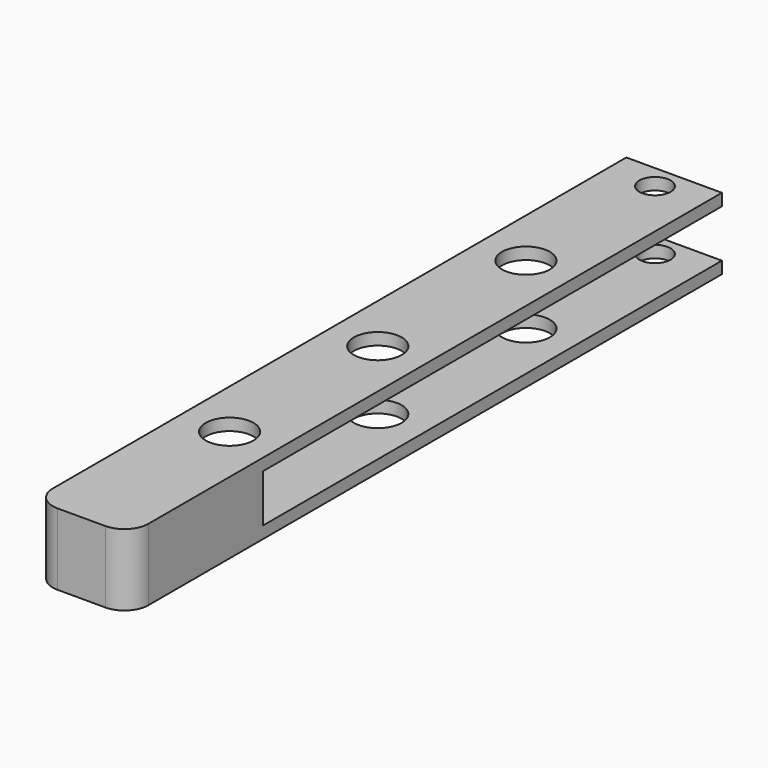
from build123d import *

# Parameters (mm, degrees)
F0_R     = 6.35
F0_R_2   = 4.136422
F1_DEPTH = 19.05
F2_W     = 12.7
F2_H     = 12.7
F3_DEPTH = 152.4


with BuildPart() as f1:
    # F0 (on Top) → F1 (new body)
    with BuildSketch(Plane.XY):
        with BuildLine():
            Line((25.4, 6.35), (25.4, 196.85))
            Line((25.4, 196.85), (6.35, 196.85))
            Line((6.35, 196.85), (0, 196.85))
            Line((0, 196.85), (0, 190.5))
            Line((0, 190.5), (0, 98.425))
            Line((0, 98.425), (0, 6.35))
            ThreePointArc((0, 6.35), (1.859872, 1.859872), (6.35, 0))
            Line((6.35, 0), (19.05, 0))
            ThreePointArc((19.05, 0), (23.540128, 1.859872), (25.4, 6.35))
        make_face()
        with Locations((12.7, 49.2125)):
            Circle(F0_R, mode=Mode.SUBTRACT)
        with Locations((12.7, 98.425)):
            Circle(F0_R, mode=Mode.SUBTRACT)
        with Locations((12.7, 147.6375)):
            Circle(F0_R, mode=Mode.SUBTRACT)
        with Locations((12.7, 190.5)):
            Circle(F0_R_2, mode=Mode.SUBTRACT)
    extrude(amount=F1_DEPTH)

    # F2 (on face) → F3 (cut)
    with BuildSketch(Plane(origin=(0, 196.85, 0), x_dir=(-1, 0, 0), z_dir=(0, 1, 0))):
        with Locations((-19.05, 9.525)):
            Rectangle(F2_W, F2_H)
        with Locations((-6.35, 9.525)):
            Rectangle(F2_W, F2_H)
    extrude(amount=-F3_DEPTH, mode=Mode.SUBTRACT)


solid = f1.part
